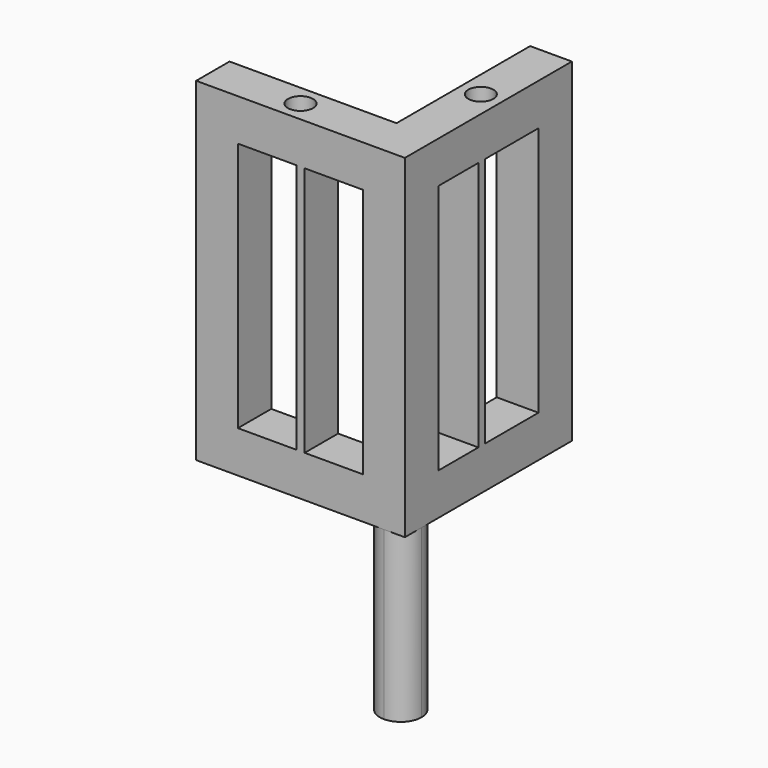
from build123d import *

# Parameters (mm, degrees)
F0_W     = 5
F0_H     = 8
F0_W_2   = 7
F0_H_2   = 5
F0_W_3   = 1
F0_H_3   = 1
F1_DEPTH = 5
F2_DEPTH = 40
F3_START = 35
F3_DEPTH = 5
F4_DEPTH = 20
F6_D     = 3
F6_DEPTH = 20
F6_TIP   = 0.9012909285


with BuildPart() as f1:
    # F0 (on Top) → F1 (new body)
    with BuildSketch(Plane.XY):
        with Locations((-32.4270167043, 29.4046077263)):
            Rectangle(F0_W, F0_H)
        with Locations((-46.4270167043, 15.9046077263)):
            Rectangle(F0_W_2, F0_H_2)
        with Locations((-52.4270167043, 15.9046077263)):
            Rectangle(F0_W, F0_H_2)
        with Locations((-32.4270167043, 35.9046077263)):
            Rectangle(F0_W, F0_H_2)
        with BuildLine():
            ThreePointArc((-34.9270167043, 15.9046077263), (-34.1947836573, 14.1368407733), (-32.4270167043, 13.4046077263))
            ThreePointArc((-32.4270167043, 13.4046077263), (-30.6592497514, 14.1368407733), (-29.9270167043, 15.9046077263))
            ThreePointArc((-29.9270167043, 15.9046077263), (-30.6592497514, 17.6723746792), (-32.4270167043, 18.4046077263))
            ThreePointArc((-32.4270167043, 18.4046077263), (-34.1947836573, 17.6723746792), (-34.9270167043, 15.9046077263))
        make_face()
        with BuildLine():
            ThreePointArc((-32.4270167043, 18.4046077263), (-30.6592497514, 17.6723746792), (-29.9270167043, 15.9046077263))
            Line((-29.9270167043, 15.9046077263), (-29.9270167043, 18.4046077263))
            Line((-29.9270167043, 18.4046077263), (-32.4270167043, 18.4046077263))
        make_face()
        with BuildLine():
            Line((-34.9270167043, 15.9046077263), (-34.9270167043, 13.4046077263))
            Line((-34.9270167043, 13.4046077263), (-32.4270167043, 13.4046077263))
            ThreePointArc((-32.4270167043, 13.4046077263), (-34.1947836573, 14.1368407733), (-34.9270167043, 15.9046077263))
        make_face()
        with BuildLine():
            ThreePointArc((-29.9270167043, 15.9046077263), (-30.6592497514, 14.1368407733), (-32.4270167043, 13.4046077263))
            Line((-32.4270167043, 13.4046077263), (-29.9270167043, 13.4046077263))
            Line((-29.9270167043, 13.4046077263), (-29.9270167043, 15.9046077263))
        make_face()
        with BuildLine():
            Line((-34.9270167043, 18.4046077263), (-34.9270167043, 15.9046077263))
            ThreePointArc((-34.9270167043, 15.9046077263), (-34.1947836573, 17.6723746792), (-32.4270167043, 18.4046077263))
            Line((-32.4270167043, 18.4046077263), (-34.9270167043, 18.4046077263))
        make_face()
        Polygon((-41.9270167043, 18.4046077263), (-41.9270167043, 13.4046077263), (-34.9270167043, 13.4046077263), (-34.9270167043, 15.9046077263), (-34.9270167043, 18.4046077263), align=None)
        with Locations((-42.4270167043, 15.9046077263)):
            Rectangle(F0_W_3, F0_H_2)
        Polygon((-34.9270167043, 24.4046077263), (-34.9270167043, 18.4046077263), (-32.4270167043, 18.4046077263), (-29.9270167043, 18.4046077263), (-29.9270167043, 24.4046077263), align=None)
        with Locations((-32.4270167043, 24.9046077263)):
            Rectangle(F0_W, F0_H_3)
    extrude(amount=F1_DEPTH)

    # F0 (on Top) → F2 (join)
    with BuildSketch(Plane.XY):
        with Locations((-52.4270167043, 15.9046077263)):
            Rectangle(F0_W, F0_H_2)
        with BuildLine():
            Line((-34.9270167043, 18.4046077263), (-34.9270167043, 15.9046077263))
            ThreePointArc((-34.9270167043, 15.9046077263), (-34.1947836573, 17.6723746792), (-32.4270167043, 18.4046077263))
            Line((-32.4270167043, 18.4046077263), (-34.9270167043, 18.4046077263))
        make_face()
        with BuildLine():
            Line((-34.9270167043, 15.9046077263), (-34.9270167043, 13.4046077263))
            Line((-34.9270167043, 13.4046077263), (-32.4270167043, 13.4046077263))
            ThreePointArc((-32.4270167043, 13.4046077263), (-34.1947836573, 14.1368407733), (-34.9270167043, 15.9046077263))
        make_face()
        with BuildLine():
            ThreePointArc((-34.9270167043, 15.9046077263), (-34.1947836573, 14.1368407733), (-32.4270167043, 13.4046077263))
            ThreePointArc((-32.4270167043, 13.4046077263), (-30.6592497514, 14.1368407733), (-29.9270167043, 15.9046077263))
            ThreePointArc((-29.9270167043, 15.9046077263), (-30.6592497514, 17.6723746792), (-32.4270167043, 18.4046077263))
            ThreePointArc((-32.4270167043, 18.4046077263), (-34.1947836573, 17.6723746792), (-34.9270167043, 15.9046077263))
        make_face()
        with BuildLine():
            ThreePointArc((-32.4270167043, 18.4046077263), (-30.6592497514, 17.6723746792), (-29.9270167043, 15.9046077263))
            Line((-29.9270167043, 15.9046077263), (-29.9270167043, 18.4046077263))
            Line((-29.9270167043, 18.4046077263), (-32.4270167043, 18.4046077263))
        make_face()
        with BuildLine():
            ThreePointArc((-29.9270167043, 15.9046077263), (-30.6592497514, 14.1368407733), (-32.4270167043, 13.4046077263))
            Line((-32.4270167043, 13.4046077263), (-29.9270167043, 13.4046077263))
            Line((-29.9270167043, 13.4046077263), (-29.9270167043, 15.9046077263))
        make_face()
        with Locations((-32.4270167043, 35.9046077263)):
            Rectangle(F0_W, F0_H_2)
        with Locations((-42.4270167043, 15.9046077263)):
            Rectangle(F0_W_3, F0_H_2)
        with Locations((-32.4270167043, 24.9046077263)):
            Rectangle(F0_W, F0_H_3)
    extrude(amount=F2_DEPTH)

    # F0 (on Top) → F3 (join)
    with BuildSketch(Plane.XY.offset(F3_START)):
        with Locations((-32.4270167043, 29.4046077263)):
            Rectangle(F0_W, F0_H)
        with Locations((-46.4270167043, 15.9046077263)):
            Rectangle(F0_W_2, F0_H_2)
        Polygon((-41.9270167043, 18.4046077263), (-41.9270167043, 13.4046077263), (-34.9270167043, 13.4046077263), (-34.9270167043, 15.9046077263), (-34.9270167043, 18.4046077263), align=None)
        Polygon((-34.9270167043, 24.4046077263), (-34.9270167043, 18.4046077263), (-32.4270167043, 18.4046077263), (-29.9270167043, 18.4046077263), (-29.9270167043, 24.4046077263), align=None)
    extrude(amount=F3_DEPTH)

    # F0 (on Top) → F4 (join)
    with BuildSketch(Plane.XY):
        with BuildLine():
            ThreePointArc((-34.9270167043, 15.9046077263), (-34.1947836573, 14.1368407733), (-32.4270167043, 13.4046077263))
            ThreePointArc((-32.4270167043, 13.4046077263), (-30.6592497514, 14.1368407733), (-29.9270167043, 15.9046077263))
            ThreePointArc((-29.9270167043, 15.9046077263), (-30.6592497514, 17.6723746792), (-32.4270167043, 18.4046077263))
            ThreePointArc((-32.4270167043, 18.4046077263), (-34.1947836573, 17.6723746792), (-34.9270167043, 15.9046077263))
        make_face()
    extrude(amount=-F4_DEPTH)

    # F6
    with Locations(Plane.XY.offset(40)):
        with Locations((-44.4270167043, 15.9046077263), (-32.4270167043, 27.9046077263)):
            Hole(F6_D / 2, depth=F6_DEPTH)
            with Locations((0, 0, -(F6_DEPTH + F6_TIP / 2))):  # 118° drill point
                Cone(0, F6_D / 2, F6_TIP, mode=Mode.SUBTRACT)


solid = f1.part
